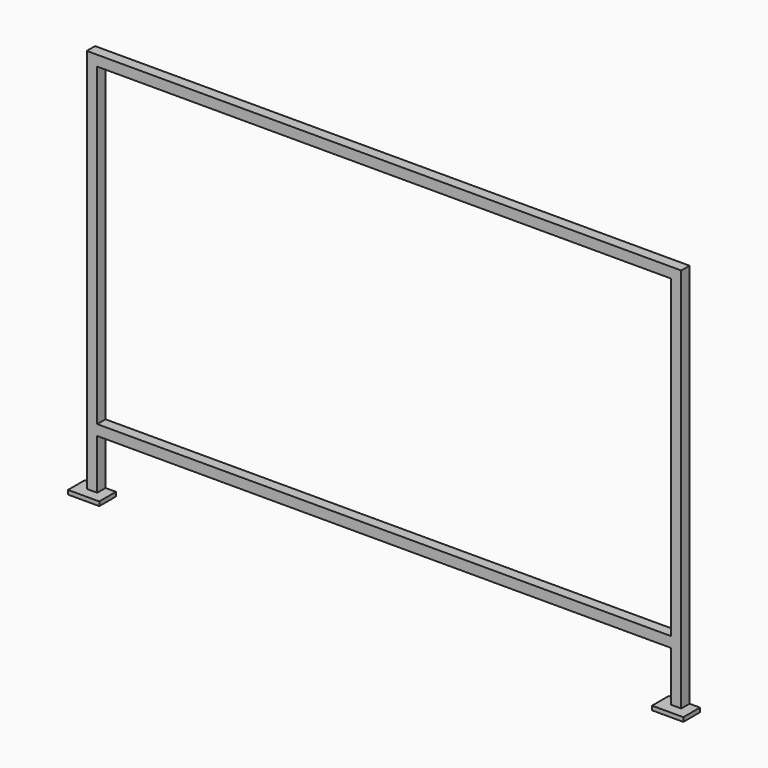
from build123d import *

# Parameters (mm, degrees)
F0_W     = 2752
F0_H     = 1510
F0_W_2   = 50
F0_H_2   = 240
F1_DEPTH = 50
F2_DEPTH = 100
F3_DEPTH = 100


with BuildPart() as f1:
    # F0 (on Front) → F1 (new body)
    with BuildSketch(Plane.XZ):
        Polygon((2852, 0), (0, 0), (0, -1610), (50, -1610), (2802, -1610), (2852, -1610), align=None)
        with Locations((1426, -805)):
            Rectangle(F0_W, F0_H, mode=Mode.SUBTRACT)
        with Locations((25, -1730)):
            Rectangle(F0_W_2, F0_H_2)
        with Locations((2827, -1730)):
            Rectangle(F0_W_2, F0_H_2)
    extrude(amount=F1_DEPTH)

    # F0 (on Front) → F2 (join)
    with BuildSketch(Plane.XZ):
        Polygon((50, -1850), (0, -1850), (-50, -1850), (-50, -1870), (100, -1870), (100, -1850), align=None)
    extrude(amount=F2_DEPTH)

    # F0 (on Front) → F3 (join)
    with BuildSketch(Plane.XZ):
        Polygon((2902, -1850), (2852, -1850), (2802, -1850), (2752, -1850), (2752, -1870), (2902, -1870), align=None)
    extrude(amount=F3_DEPTH)


solid = f1.part
